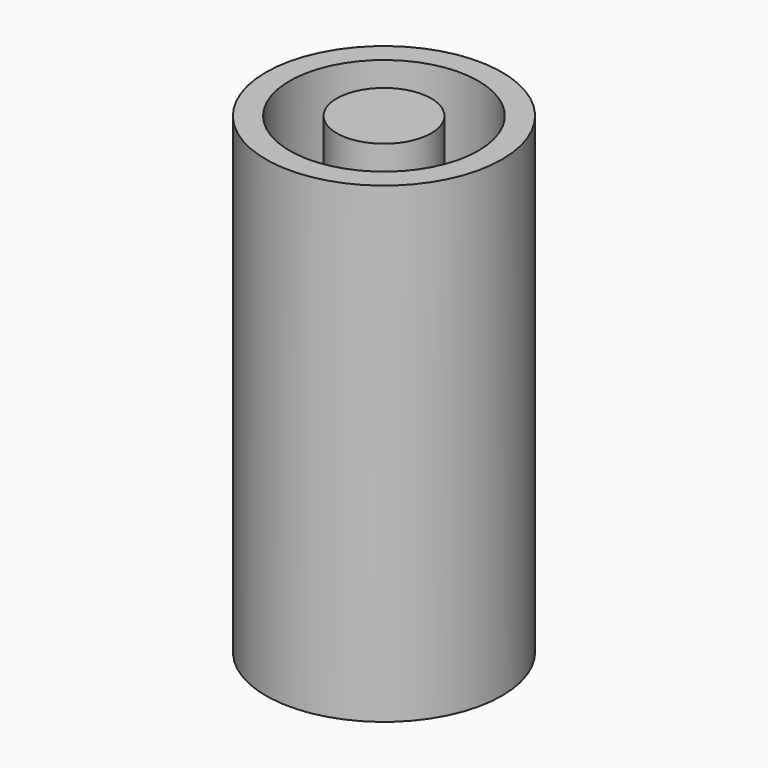
from build123d import *

# Parameters (mm, degrees)
F0_R     = 25.4
F1_DEPTH = 127
F0_R_2   = 63.5
F0_R_3   = 50.8


with BuildPart() as f1:
    # F0 (on Top) → F1 (new body, symmetric)
    with BuildSketch(Plane.XY):
        Circle(F0_R)
    extrude(amount=F1_DEPTH, both=True)


with BuildPart() as f1b:
    # F0 (on Top) → F1, piece 2 (new body, symmetric)
    with BuildSketch(Plane.XY):
        Circle(F0_R_2)
        Circle(F0_R_3, mode=Mode.SUBTRACT)
    extrude(amount=F1_DEPTH, both=True)


solid = Compound([f1.part, f1b.part])
